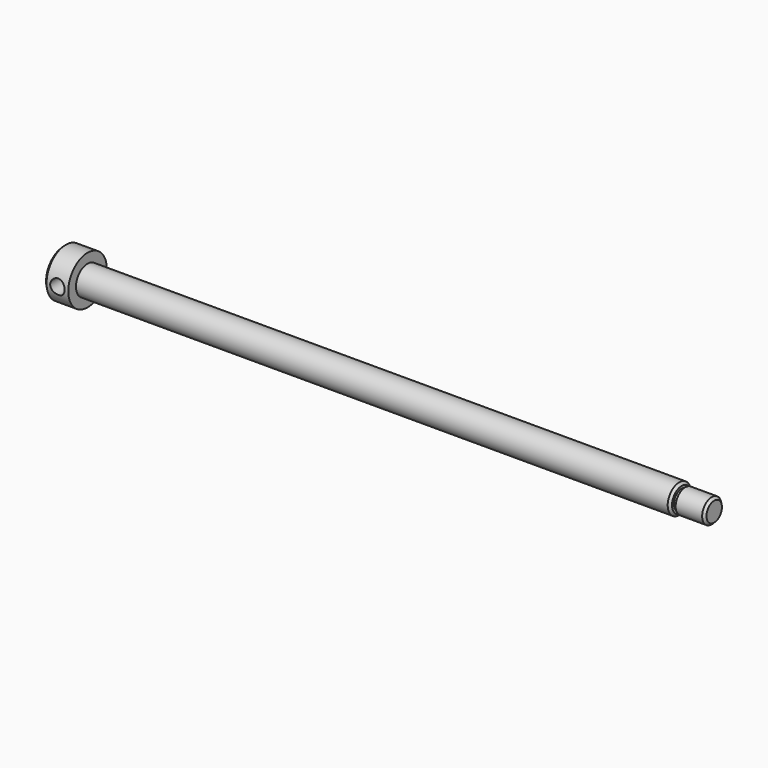
from build123d import *

# Parameters (mm, degrees)
F2_SIZE  = 1
F4_R     = 3
F5_DEPTH = 39.4


with BuildPart() as f1:
    # F0 (on Front) → F1 (revolve)
    with BuildSketch(Plane.XZ):
        Polygon((-103.14801, 10), (-103.14801, 0), (166.85199, 0), (166.85199, 5), (154.85199, 5), (154.85199, 4), (153.35199, 4), (153.35199, 6), (-93.14801, 6), (-93.14801, 10), align=None)
    revolve(axis=Axis((31.85199, 0, 0), (1, 0, 0)))

    # F2
    f2_edges = [f1.edges().sort_by_distance(p)[0] for p in [
        (153.35199, 0, -6),
        (-103.14801, 0, -10),
        (166.85199, 0, -5),
    ]]
    chamfer(f2_edges, length=F2_SIZE)

    # F4 (on offset) → F5 (cut)
    with BuildSketch(Plane.XZ.offset(25)):
        with Locations((-97.64801, 0)):
            Circle(F4_R)
    extrude(amount=-F5_DEPTH, mode=Mode.SUBTRACT)


solid = f1.part
